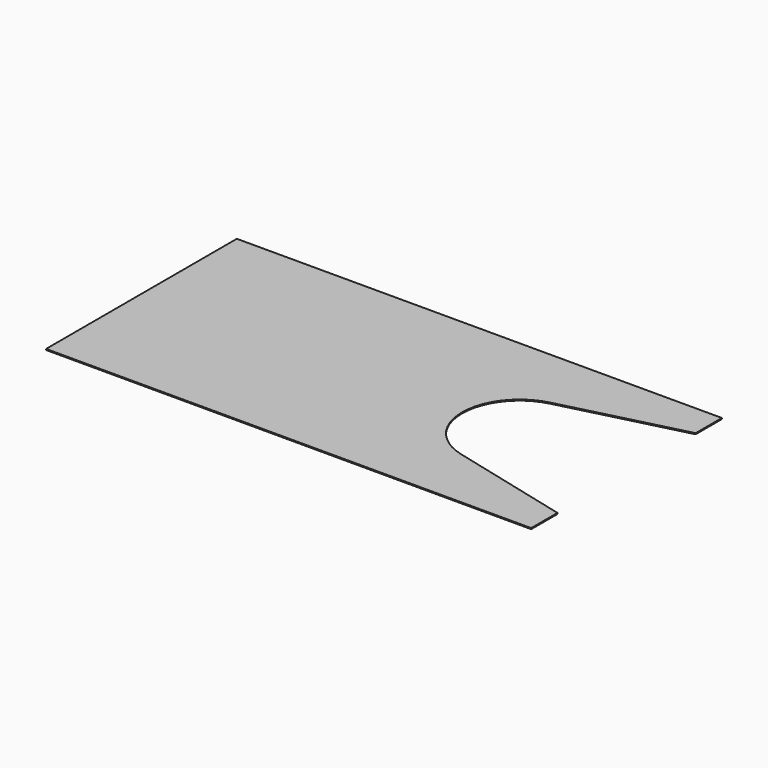
from build123d import *

# Parameters (mm, degrees)
F1_DEPTH = 1.5748


with BuildPart() as f1:
    # F0 (on Top) → F1 (new body)
    with BuildSketch(Plane.XY):
        with BuildLine():
            Line((0, 368.3), (0, 0))
            Line((0, 0), (749.3, 0))
            Line((749.3, 0), (749.3, 50.8))
            Line((749.3, 50.8), (562.447943, 97.952216))
            ThreePointArc((562.447943, 97.952216), (514.068096, 129.517353), (495.3, 184.15))
            ThreePointArc((495.3, 184.15), (514.068096, 238.782647), (562.447943, 270.347784))
            Line((562.447943, 270.347784), (749.3, 317.5))
            Line((749.3, 317.5), (749.3, 368.3))
            Line((749.3, 368.3), (0, 368.3))
        make_face()
    extrude(amount=F1_DEPTH)


solid = f1.part
